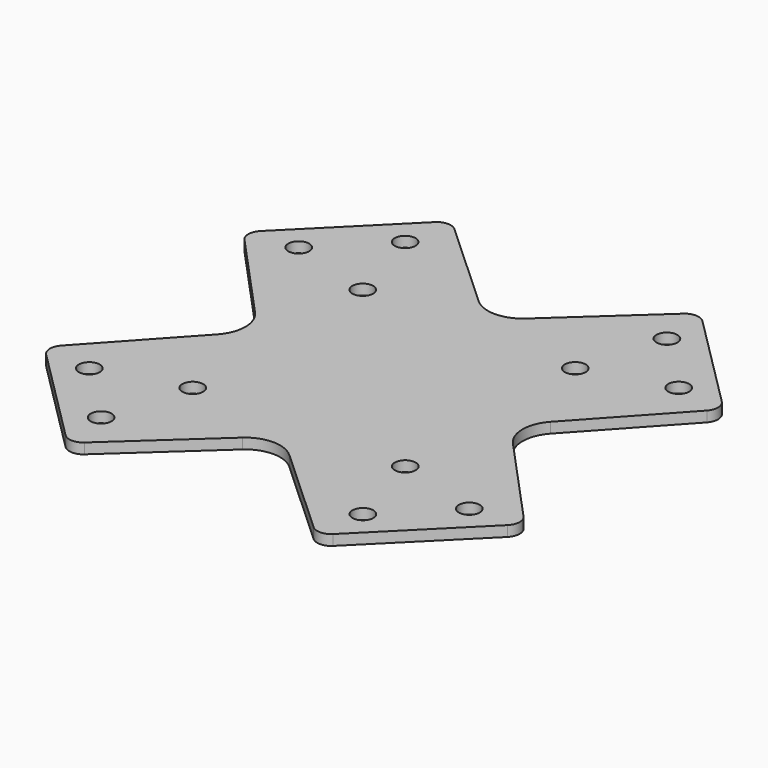
from build123d import *

# Parameters (mm, degrees)
F0_R     = 1.5
F1_DEPTH = 1.5
F2_R     = 2


with BuildPart() as f1:
    # F0 (on Top) → F1 (new body)
    with BuildSketch(Plane.XY):
        with BuildLine():
            Line((-21.206192, -3.377951), (-34.471456, -17.854446))
            Line((-34.471456, -17.854446), (-17.854446, -34.471456))
            Line((-17.854446, -34.471456), (-3.377951, -21.206192))
            ThreePointArc((-3.377951, -21.206192), (0, -19.892578), (3.377951, -21.206192))
            Line((3.377951, -21.206192), (17.854446, -34.471456))
            Line((17.854446, -34.471456), (34.471456, -17.854446))
            Line((34.471456, -17.854446), (21.206192, -3.377951))
            ThreePointArc((21.206192, -3.377951), (19.892578, 0), (21.206192, 3.377951))
            Line((21.206192, 3.377951), (34.471456, 17.854446))
            Line((34.471456, 17.854446), (17.854446, 34.471456))
            Line((17.854446, 34.471456), (3.377951, 21.206192))
            ThreePointArc((3.377951, 21.206192), (0, 19.892578), (-3.377951, 21.206192))
            Line((-3.377951, 21.206192), (-17.854446, 34.471456))
            Line((-17.854446, 34.471456), (-34.471456, 17.854446))
            Line((-34.471456, 17.854446), (-21.206192, 3.377951))
            ThreePointArc((-21.206192, 3.377951), (-19.892578, 0), (-21.206192, -3.377951))
        make_face()
        with Locations((-18.785534, -27.270815)):
            Circle(F0_R, mode=Mode.SUBTRACT)
        with Locations((-27.270815, -18.785534)):
            Circle(F0_R, mode=Mode.SUBTRACT)
        with Locations((-15.25, -15.25)):
            Circle(F0_R, mode=Mode.SUBTRACT)
        with Locations((18.785534, -27.270815)):
            Circle(F0_R, mode=Mode.SUBTRACT)
        with Locations((27.270815, -18.785534)):
            Circle(F0_R, mode=Mode.SUBTRACT)
        with Locations((15.25, -15.25)):
            Circle(F0_R, mode=Mode.SUBTRACT)
        with Locations((-15.25, 15.25)):
            Circle(F0_R, mode=Mode.SUBTRACT)
        with Locations((-27.270815, 18.785534)):
            Circle(F0_R, mode=Mode.SUBTRACT)
        with Locations((-18.785534, 27.270815)):
            Circle(F0_R, mode=Mode.SUBTRACT)
        with Locations((15.25, 15.25)):
            Circle(F0_R, mode=Mode.SUBTRACT)
        with Locations((27.270815, 18.785534)):
            Circle(F0_R, mode=Mode.SUBTRACT)
        with Locations((18.785534, 27.270815)):
            Circle(F0_R, mode=Mode.SUBTRACT)
    extrude(amount=F1_DEPTH)

    # F2
    f2_edges = [f1.edges().sort_by_distance(p)[0] for p in [
        (-34.471456, 17.854446, 0.75),
        (-17.854446, 34.471456, 0.75),
        (17.854446, 34.471456, 0.75),
        (34.471456, 17.854446, 0.75),
        (34.471456, -17.854446, 0.75),
        (17.854446, -34.471456, 0.75),
        (-17.854446, -34.471456, 0.75),
        (-34.471456, -17.854446, 0.75),
    ]]
    fillet(f2_edges, radius=F2_R)


solid = f1.part
